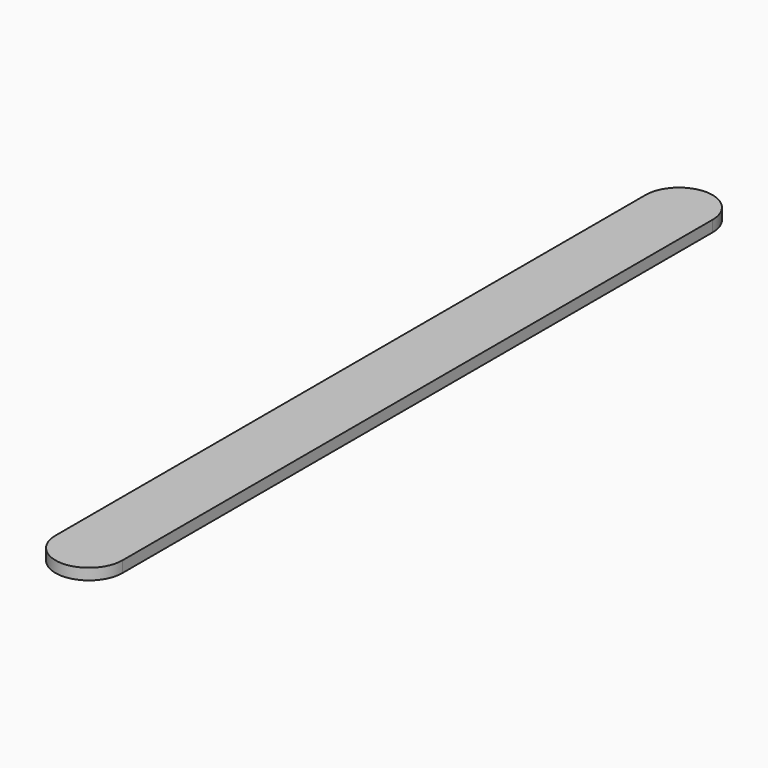
from build123d import *

# Parameters (mm, degrees)
F0_W     = 9.525
F0_H     = 104.775
F1_DEPTH = 0.79375


with BuildPart() as f1:
    # F0 (on Top) → F1 (new body, symmetric)
    with BuildSketch(Plane.XY):
        with BuildLine():
            ThreePointArc((-4.7625, -52.3875), (0, -57.15), (4.7625, -52.3875))
            Line((4.7625, -52.3875), (-4.7625, -52.3875))
        make_face()
        Rectangle(F0_W, F0_H)
        with BuildLine():
            Line((-4.7625, 52.3875), (4.7625, 52.3875))
            ThreePointArc((4.7625, 52.3875), (0, 57.15), (-4.7625, 52.3875))
        make_face()
    extrude(amount=F1_DEPTH, both=True)


solid = f1.part
